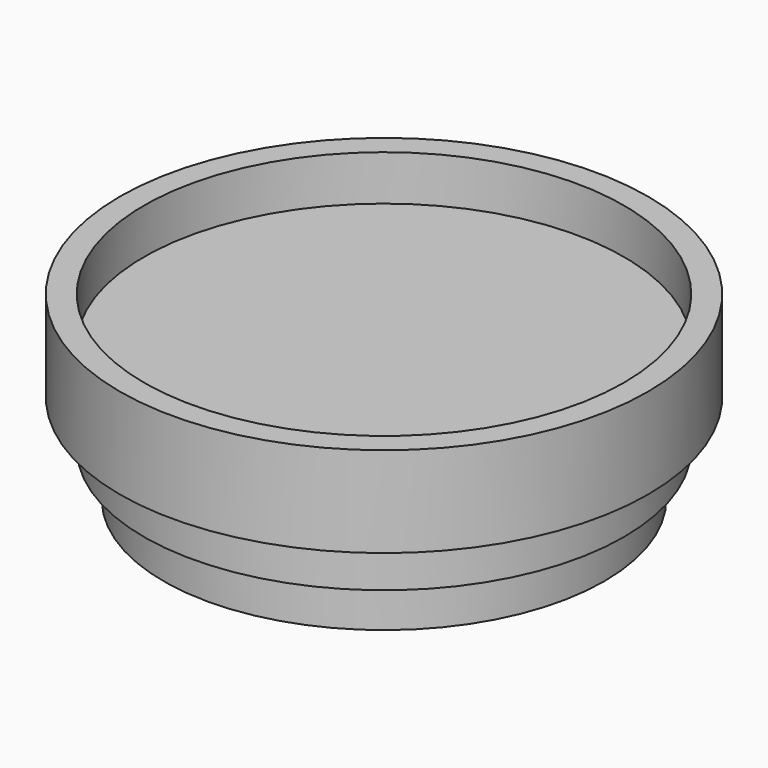
from build123d import *

# Parameters (mm, degrees)
F0_R     = 7.95
F2_DEPTH = 3
F4_R     = 8.75
F4_R_2   = 7.95
F5_DEPTH = 1.5
F3_R     = 7.302196
F6_DEPTH = 1.5


with BuildPart() as f2:
    # F0 (on Top) → F2 (new body)
    with BuildSketch(Plane.XY):
        Circle(F0_R)
    extrude(amount=F2_DEPTH)

    # F4 (on face) → F5 (join, symmetric)
    with BuildSketch(Plane.XY.offset(3)):
        Circle(F4_R)
        Circle(F4_R_2, mode=Mode.SUBTRACT)
    extrude(amount=F5_DEPTH, both=True)

    # F3 (on Top) → F6 (join, symmetric)
    with BuildSketch(Plane.XY):
        Circle(F3_R)
    extrude(amount=F6_DEPTH, both=True)


solid = f2.part
